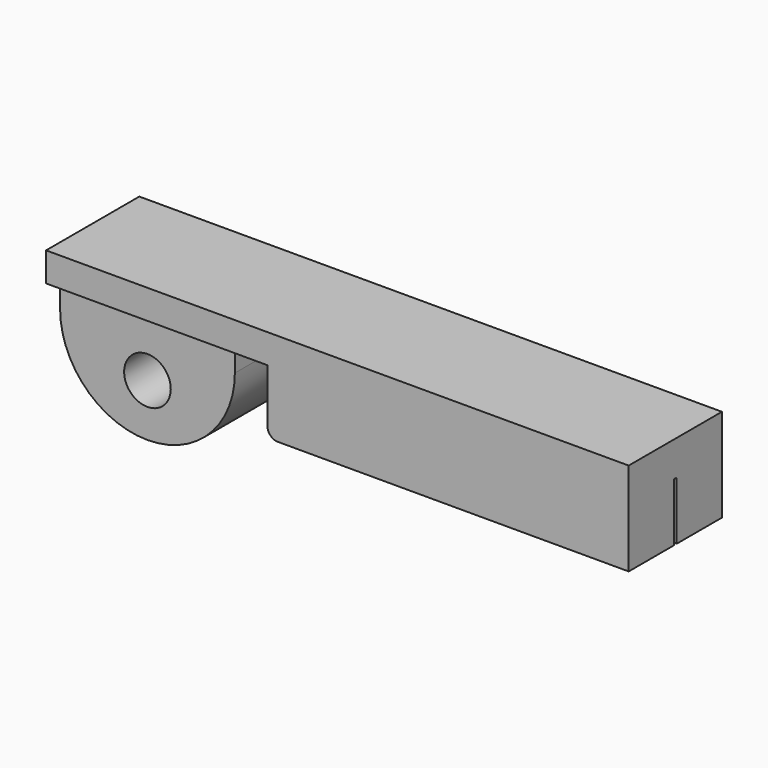
from build123d import *

# Parameters (mm, degrees)
F1_DEPTH = 10
F0_R     = 4
F2_DEPTH = 7
F3_R     = 1.8
F6_DEPTH = 65


with BuildPart() as f1:
    # F0 (on Front) → F1 (new body, symmetric)
    with BuildSketch(Plane.XZ):
        Polygon((100, 25), (0, 25), (0, 20), (30, 20), (38, 20), (38, 9), (100, 9), align=None)
    extrude(amount=F1_DEPTH, both=True)

    # F0 (on Front) → F2 (join, symmetric)
    with BuildSketch(Plane.XZ):
        Polygon((100, 25), (0, 25), (0, 20), (30, 20), (38, 20), (38, 9), (100, 9), align=None)
        with BuildLine():
            Line((30, 20), (0, 20))
            Line((0, 20), (0, 15))
            ThreePointArc((0, 15), (15, 0), (30, 15))
            Line((30, 15), (30, 20))
        make_face()
        with Locations((15, 9)):
            Circle(F0_R, mode=Mode.SUBTRACT)
    extrude(amount=F2_DEPTH, both=True)

    # F3
    f3_edges = [f1.edges().sort_by_distance(p)[0] for p in [
        (30, 0, 20),
        (15, -7, 20),
        (15, 7, 20),
        (38, 0, 9),
    ]]
    fillet(f3_edges, radius=F3_R)

    # F5 (on offset) → F6 (cut)
    with BuildSketch(Plane.YZ.offset(100)):
        Polygon((-0.3, 9), (0, 9), (0.3, 9), (0.3, 19), (-0.3, 19), align=None)
    extrude(amount=-F6_DEPTH, mode=Mode.SUBTRACT)


solid = f1.part
